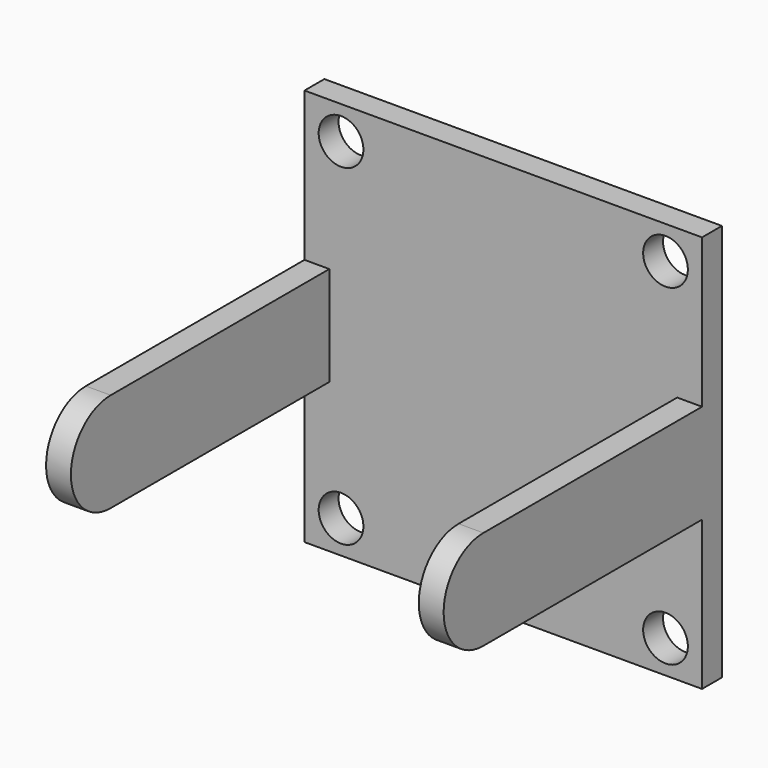
from build123d import *

# Parameters (mm, degrees)
F0_W     = 101.6
F0_H     = 101.6
F1_DEPTH = 6.35
F2_R     = 5.715
F3_DEPTH = 6.35
F8_DEPTH = 6.35
F9_DEPTH = 6.35


with BuildPart() as f1:
    # F0 (on Front) → F1 (new body)
    with BuildSketch(Plane.XZ):
        Rectangle(F0_W, F0_H)
    extrude(amount=F1_DEPTH)

    # F2 (on Front) → F3 (cut)
    with BuildSketch(Plane.XZ):
        with Locations((-41.4617918432, 42.3875935376)):
            Circle(F2_R)
        with Locations((41.4617918432, 42.3875935376)):
            Circle(F2_R)
        with Locations((-41.4617918432, -42.3875935376)):
            Circle(F2_R)
        with Locations((41.4617918432, -42.3875935376)):
            Circle(F2_R)
    extrude(amount=F3_DEPTH, mode=Mode.SUBTRACT)

    # F7 (on offset) → F8 (join)
    with BuildSketch(Plane.YZ.offset(50.8)):
        with BuildLine():
            Line((0, -12.7), (0, 12.7))
            Line((0, 12.7), (-76.2, 12.7))
            ThreePointArc((-76.2, 12.7), (-88.9, 0), (-76.2, -12.7))
            Line((-76.2, -12.7), (0, -12.7))
        make_face()
    extrude(amount=-F8_DEPTH)

    # F5 (on offset) → F9 (join)
    with BuildSketch(Plane(origin=(-50.8, 0, 0), x_dir=(0, -1, 0), z_dir=(-1, 0, 0))):
        with BuildLine():
            Line((76.2, 12.7), (0, 12.7))
            Line((0, 12.7), (0, -12.7))
            Line((0, -12.7), (76.2, -12.7))
            ThreePointArc((76.2, -12.7), (88.9, 0), (76.2, 12.7))
        make_face()
    extrude(amount=-F9_DEPTH)


solid = f1.part
